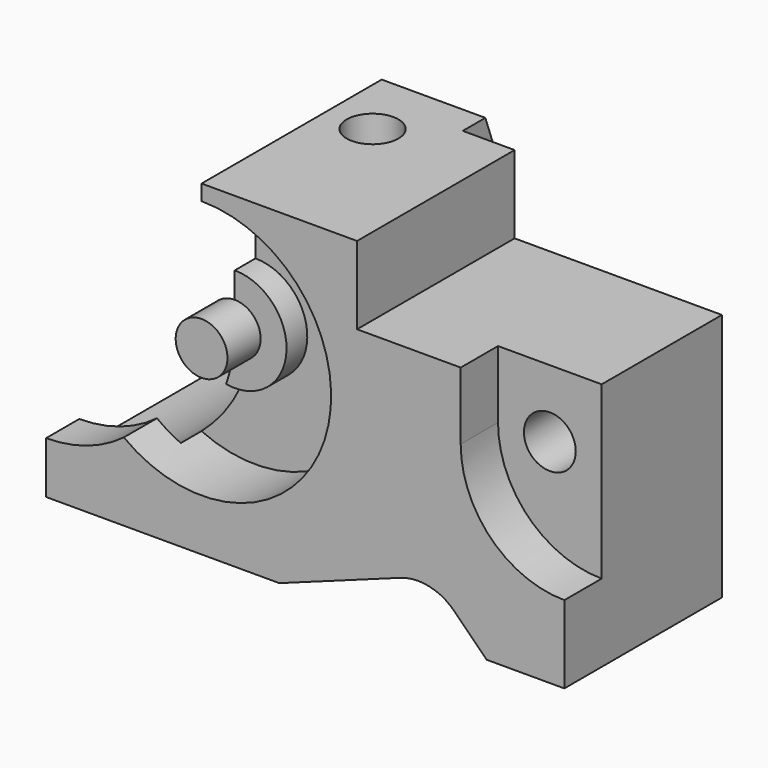
from build123d import *

# Parameters (mm, degrees)
F1_DEPTH  = 50
F6_DEPTH  = 9
F7_R      = 5
F8_DEPTH  = 50.001
F11_DEPTH = 42.001
F13_DEPTH = 25
F15_DEPTH = 70.001
F16_R     = 5
F17_DEPTH = 63.001
F18_W     = 50
F18_H     = 12
F19_DEPTH = 63.001


with BuildPart() as f1:
    # F0 (on Front) → F1 (new body)
    with BuildSketch(Plane.XZ):
        with BuildLine():
            Line((-15, 0), (0, 0))
            Line((0, 0), (0, 48))
            Line((0, 48), (-40, 48))
            Line((-40, 48), (-40, 63))
            Line((-40, 63), (-100, 63))
            Line((-100, 63), (-100, 0))
            Line((-100, 0), (-55, 0))
            Line((-55, 0), (-31.660349, 8.494938))
            ThreePointArc((-31.660349, 8.494938), (-26.075751, 8.860972), (-21.16908, 6.16908))
            Line((-21.16908, 6.16908), (-15, 0))
        make_face()
    extrude(amount=-F1_DEPTH)

    # F3 (on offset) → F4 (revolve, cut)
    with BuildSketch(Plane.XY.offset(35)):
        Polygon((-95, -45.383817), (-70, -45.383817), (-70, 0), (-75, 0), (-75, 8), (-80, 8), (-80, 13), (-95, 13), align=None)
    revolve(axis=Axis((-70, 46.071887, 35), (0, 1, 0)), mode=Mode.SUBTRACT)

    # F5 (on Front) → F6 (cut)
    with BuildSketch(Plane.XZ):
        with BuildLine():
            Line((24.392297, 71.465559), (-20, 71.465559))
            Line((-20, 71.465559), (-20, 35))
            ThreePointArc((-20, 35), (-14.142136, 20.857864), (0, 15))
            Line((0, 15), (24.392297, 15))
            Line((24.392297, 15), (24.392297, 71.465559))
        make_face()
    extrude(amount=-F6_DEPTH, mode=Mode.SUBTRACT)

    # F7 (on Front) → F8 (cut, through all)
    with BuildSketch(Plane.XZ):
        with Locations((-10, 35)):
            Circle(F7_R)
    extrude(amount=-F8_DEPTH, mode=Mode.SUBTRACT)

    # F10 (on offset) → F11 (cut, through all)
    with BuildSketch(Plane.XZ.offset(-8)):
        with BuildLine():
            Line((-192.213328, 107.138638), (-192.213328, 5))
            Line((-192.213328, 5), (-100, 5))
            ThreePointArc((-100, 5), (-78.786797, 13.786797), (-70, 35))
            Line((-70, 35), (-70, 107.138638))
            Line((-70, 107.138638), (-192.213328, 107.138638))
        make_face()
    extrude(amount=-F11_DEPTH, mode=Mode.SUBTRACT)

    # F12 (on offset) → F13 (cut)
    with BuildSketch(Plane.XZ.offset(-8)):
        with BuildLine():
            Line((-123.408511, 99.631183), (-123.408511, 26.222666))
            ThreePointArc((-123.408511, 26.222666), (-95.539775, 10.40109), (-75, 35))
            Line((-75, 35), (-75, 45))
            Line((-75, 45), (-70, 45))
            Line((-70, 45), (-70, 99.631183))
            Line((-70, 99.631183), (-123.408511, 99.631183))
        make_face()
    extrude(amount=F13_DEPTH, mode=Mode.SUBTRACT)

    # F14 (on face) → F15 (cut, through all)
    with BuildSketch(Plane(origin=(-70, 0, 0), x_dir=(0, -1, 0), z_dir=(-1, 0, 0))):
        Polygon((-43.448536, 63), (-50, 63), (-50, 45), align=None)
    extrude(amount=-F15_DEPTH, mode=Mode.SUBTRACT)

    # F16 (on face) → F17 (cut, through all)
    with BuildSketch(Plane.XY.offset(63)):
        with Locations((-61, 30)):
            Circle(F16_R)
    extrude(amount=-F17_DEPTH, mode=Mode.SUBTRACT)

    # F18 (on Top) → F19 (cut, through all)
    with BuildSketch(Plane.XY):
        with Locations((-25, 44)):
            Rectangle(F18_W, F18_H)
    extrude(amount=F19_DEPTH, mode=Mode.SUBTRACT)


solid = f1.part
